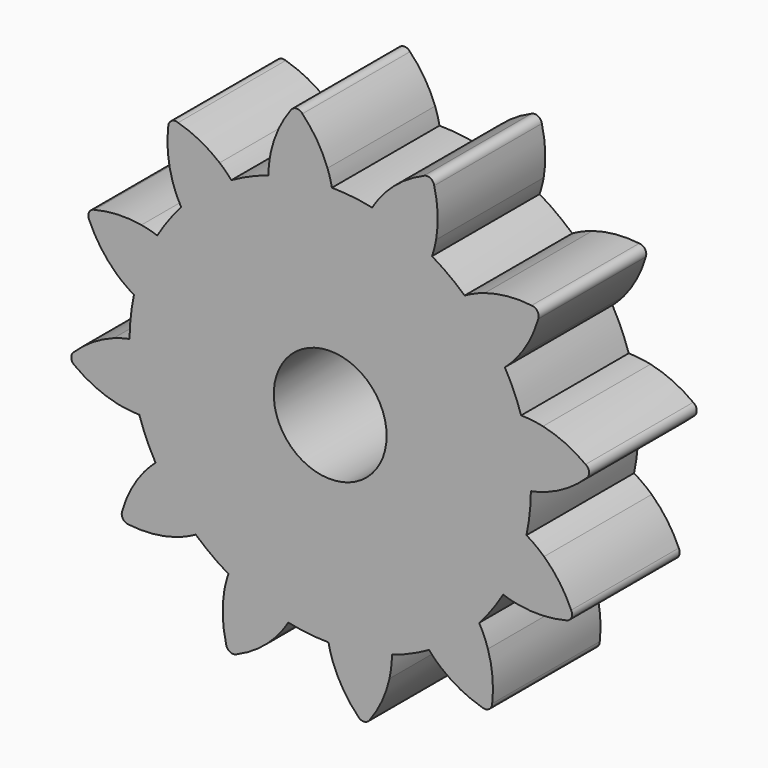
from build123d import *

# Parameters (mm, degrees)
F0_R     = 7.5523457901
F1_DEPTH = 18
F2_COUNT = 12


with BuildPart() as f1:
    # F0 (on Front) → F1 (new body)
    with BuildSketch(Plane.XZ):
        with BuildLine():
            ThreePointArc((-8.2701024402, 25.55566211), (-15.8010660029, -21.7212516541), (26.8605, 0))
            ThreePointArc((26.8605, 0), (19.0736413542, 18.9125002509), (0.2278858833, 26.8595332847))
            ThreePointArc((0.2278858833, 26.8595332847), (-4.0736140952, 26.5498046782), (-8.2701024402, 25.55566211))
        make_face()
        Circle(F0_R, mode=Mode.SUBTRACT)
        with BuildLine():
            ThreePointArc((-8.2701024402, 25.55566211), (-4.0736140952, 26.5498046782), (0.2278858833, 26.8595332847))
            ThreePointArc((0.2278858833, 26.8595332847), (-0.0259637004, 27.9265875849), (-0.3583119198, 28.971857479))
            ThreePointArc((-0.3583119198, 28.971857479), (-1.7585942686, 31.8051493547), (-3.7177759967, 34.2850567048))
            ThreePointArc((-3.7177759967, 34.2850567048), (-4.5350574201, 34.6527650776), (-5.2973513139, 34.1815258688))
            ThreePointArc((-5.2973513139, 34.1815258688), (-6.9160791073, 31.467109939), (-7.9345630465, 28.475283745))
            ThreePointArc((-7.9345630465, 28.475283745), (-8.1751413026, 27.023840498), (-8.2701024402, 25.55566211))
        make_face()
    extrude(amount=F1_DEPTH)

    # F2: F1 ×12 about axis
    f2_axis = Axis((0, 0, 0), (0, 1, 0))


with BuildPart() as f1_1:
    add(f1.part)
    for i in range(1, F2_COUNT):
        add(f1.part.rotate(f2_axis, i * 360 / F2_COUNT))


solid = f1_1.part
